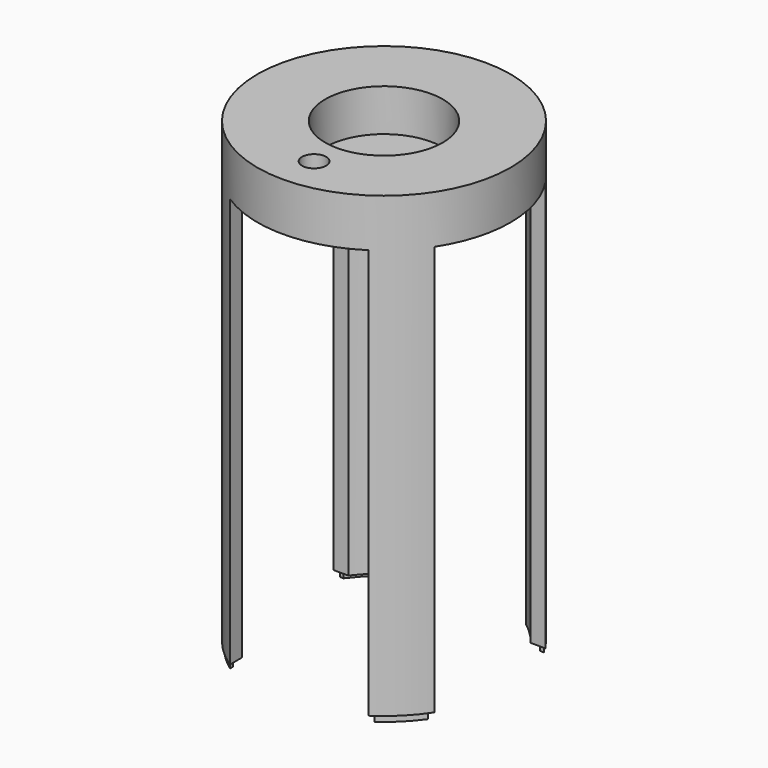
from build123d import *

# Parameters (mm, degrees)
BOX003_W          = 48
BOX003_H          = 78
BOX003_DEPTH      = 2
BOX002_W          = 48
BOX002_H          = 78
BOX002_DEPTH      = 2
CYLINDER006_R     = 41.5
CYLINDER006_DEPTH = 2
CYLINDER005_R     = 42
CYLINDER005_DEPTH = 2
CYLINDER004_R     = 40.5
CYLINDER004_DEPTH = 2
CYLINDER003_R     = 4
CYLINDER003_DEPTH = 26
BOX001_W          = 46
BOX001_H          = 99
BOX001_DEPTH      = 138
BOX_W             = 46
BOX_H             = 99
BOX_DEPTH         = 138
CYLINDER002_R     = 38
CYLINDER002_DEPTH = 138
CYLINDER001_R     = 19.5
CYLINDER001_DEPTH = 15
CYLINDER_R        = 42
CYLINDER_DEPTH    = 154


with BuildPart() as cubo003:
    # Box003 → Box003 (new body)
    with BuildSketch(Plane(origin=(37, -24, -2), x_dir=(0, 1, 0), z_dir=(0, 0, 1))):
        with Locations((24, 39)):
            Rectangle(BOX003_W, BOX003_H)
    extrude(amount=BOX003_DEPTH)


with BuildPart() as cubo002:
    # Box002 → Box002 (new body)
    with BuildSketch(Plane(origin=(-24, -39, -2), x_dir=(1, 0, 0), z_dir=(0, 0, 1))):
        with Locations((24, 39)):
            Rectangle(BOX002_W, BOX002_H)
    extrude(amount=BOX002_DEPTH)


with BuildPart() as base002:
    # Cylinder006 → Cylinder006 (new body)
    with BuildSketch(Plane.XY.offset(-2)):
        Circle(CYLINDER006_R)
    extrude(amount=CYLINDER006_DEPTH)


with BuildPart() as cut006:
    # Cylinder005 → Cylinder005 (new body)
    with BuildSketch(Plane.XY.offset(-2)):
        Circle(CYLINDER005_R)
    extrude(amount=CYLINDER005_DEPTH)

    # Cut006: cut Base002
    add(base002.part, mode=Mode.SUBTRACT)


with BuildPart() as agujero_inferior001:
    # Cylinder004 → Cylinder004 (new body)
    with BuildSketch(Plane.XY.offset(-2)):
        Circle(CYLINDER004_R)
    extrude(amount=CYLINDER004_DEPTH)


with BuildPart() as agujero_cables:
    # Cylinder003 → Cylinder003 (new body)
    with BuildSketch(Plane(origin=(0, -29, 131), x_dir=(1, 0, 0), z_dir=(0, 0, 1))):
        Circle(CYLINDER003_R)
    extrude(amount=CYLINDER003_DEPTH)


with BuildPart() as cubo001:
    # Box001 → Box001 (new body)
    with BuildSketch(Plane(origin=(44, -23, -2), x_dir=(0, 1, 0), z_dir=(0, 0, 1))):
        with Locations((23, 49.5)):
            Rectangle(BOX001_W, BOX001_H)
    extrude(amount=BOX001_DEPTH)


with BuildPart() as cubo:
    # Box → Box (new body)
    with BuildSketch(Plane(origin=(-23, -50, -2), x_dir=(1, 0, 0), z_dir=(0, 0, 1))):
        with Locations((23, 49.5)):
            Rectangle(BOX_W, BOX_H)
    extrude(amount=BOX_DEPTH)


with BuildPart() as agujero_inferior:
    # Cylinder002 → Cylinder002 (new body)
    with BuildSketch(Plane.XY.offset(-2)):
        Circle(CYLINDER002_R)
    extrude(amount=CYLINDER002_DEPTH)


with BuildPart() as agujero_superior:
    # Cylinder001 → Cylinder001 (new body)
    with BuildSketch(Plane.XY.offset(138)):
        Circle(CYLINDER001_R)
    extrude(amount=CYLINDER001_DEPTH)


with BuildPart() as cut009:
    # Cylinder → Cylinder (new body)
    with BuildSketch(Plane.XY.offset(-2)):
        Circle(CYLINDER_R)
    extrude(amount=CYLINDER_DEPTH)

    # Cut: cut Agujero superior
    add(agujero_superior.part, mode=Mode.SUBTRACT)

    # Cut001: cut Agujero inferior
    add(agujero_inferior.part, mode=Mode.SUBTRACT)

    # Cut002: cut Cubo
    add(cubo.part, mode=Mode.SUBTRACT)

    # Cut003: cut Cubo001
    add(cubo001.part, mode=Mode.SUBTRACT)

    # Cut004: cut Agujero cables
    add(agujero_cables.part, mode=Mode.SUBTRACT)

    # Cut005: cut Agujero inferior001
    add(agujero_inferior001.part, mode=Mode.SUBTRACT)

    # Cut007: cut Cut006
    add(cut006.part, mode=Mode.SUBTRACT)

    # Cut008: cut Cubo002
    add(cubo002.part, mode=Mode.SUBTRACT)

    # Cut009: cut Cubo003
    add(cubo003.part, mode=Mode.SUBTRACT)


solid = cut009.part
